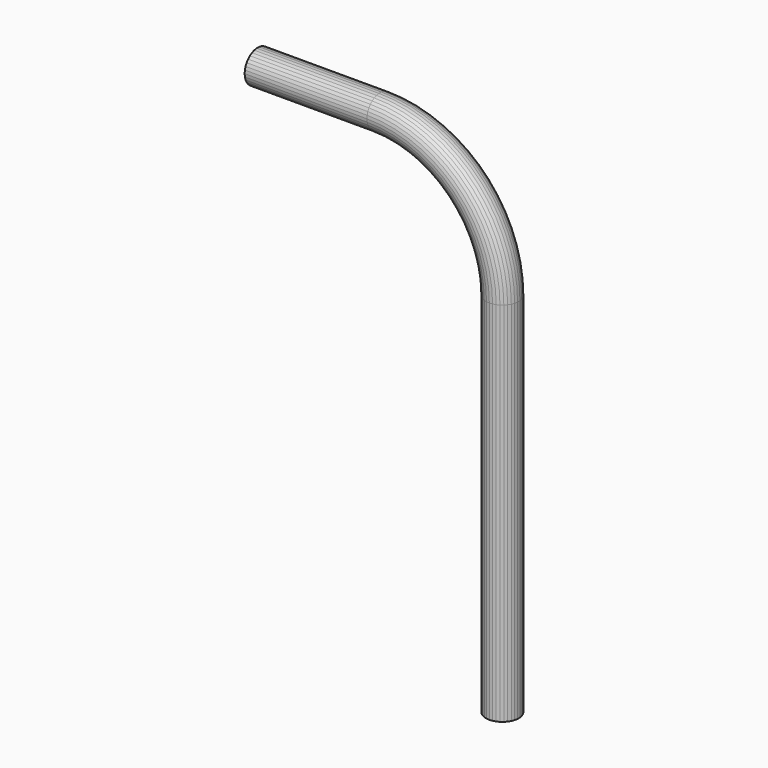
from build123d import *


with BuildPart() as f2:
    # F2: sweep along a path in F1
    with BuildLine(Plane.XZ) as f2_path:
        Line((0, 0), (0, 450))
        ThreePointArc((0, 450), (-43.933983, 556.066017), (-150, 600))
        Line((-150, 600), (-300, 600))
    # F0 (on Top) → F2 (sweep)
    with BuildSketch(Plane.XY):
        Polygon((-19.993064, -1.926657), (-19.298622, -5.567568), (-17.946988, -9.018882), (-15.984192, -12.163069), (-13.477072, -14.893057), (-10.511008, -17.11588), (-7.187003, -18.755842), (-3.618254, -19.757096), (0.073711, -20.085547), (3.763165, -19.730008), (7.32447, -18.702587), (10.636348, -17.038272), (13.586018, -14.793739), (16.073033, -12.045424), (18.0127, -8.886915), (19.338966, -5.425774), (20.006667, -1.779864), (19.993064, 1.926657), (19.298622, 5.567568), (17.946988, 9.018882), (15.984192, 12.163069), (13.477072, 14.893057), (10.511008, 17.11588), (7.187003, 18.755842), (3.618254, 19.757096), (-0.073711, 20.085547), (-3.763165, 19.730008), (-7.32447, 18.702587), (-10.636348, 17.038272), (-13.586018, 14.793739), (-16.073033, 12.045424), (-18.0127, 8.886915), (-19.338966, 5.425774), (-20.006667, 1.779864), align=None)
    sweep(path=f2_path.line)


solid = f2.part
